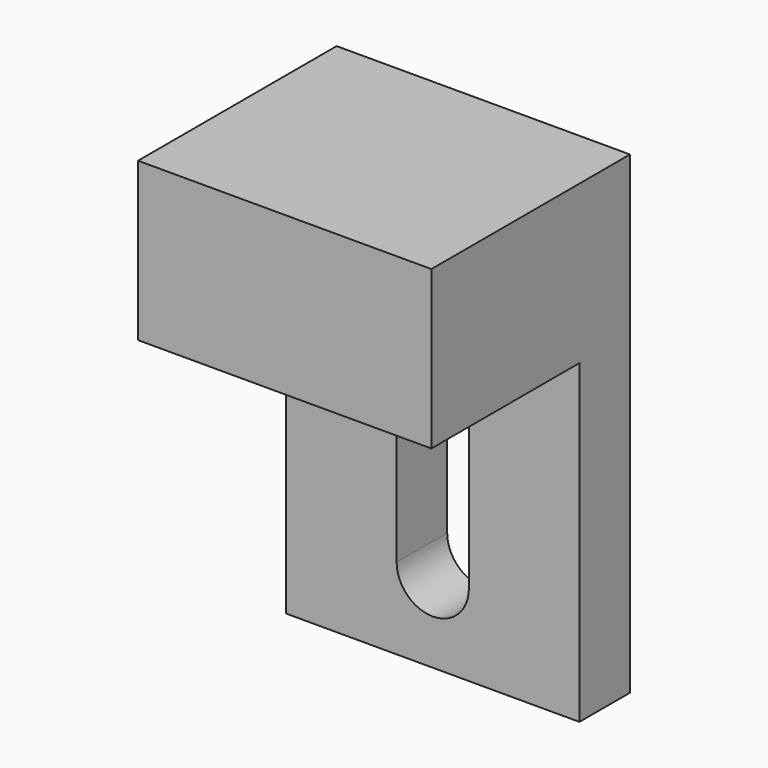
from build123d import *

# Parameters (mm, degrees)
F0_W     = 13
F0_H     = 21
F1_DEPTH = 11
F2_W     = 13
F2_H     = 14
F3_DEPTH = 8.2


with BuildPart() as f1:
    # F0 (on Front) → F1 (new body)
    with BuildSketch(Plane.XZ):
        with Locations((0, 10.5)):
            Rectangle(F0_W, F0_H)
        with BuildLine():
            ThreePointArc((1.6, 3.6), (0, 2), (-1.6, 3.6))
            Line((-1.6, 3.6), (-1.6, 10.6))
            ThreePointArc((-1.6, 10.6), (0, 12.2), (1.6, 10.6))
            Line((1.6, 10.6), (1.6, 3.6))
        make_face(mode=Mode.SUBTRACT)
    extrude(amount=F1_DEPTH)

    # F2 (on face) → F3 (cut)
    with BuildSketch(Plane.XZ.offset(11)):
        with Locations((0, 7)):
            Rectangle(F2_W, F2_H)
        with BuildLine():
            ThreePointArc((1.6, 3.6), (0, 2), (-1.6, 3.6))
            Line((-1.6, 3.6), (-1.6, 10.6))
            ThreePointArc((-1.6, 10.6), (0, 12.2), (1.6, 10.6))
            Line((1.6, 10.6), (1.6, 3.6))
        make_face(mode=Mode.SUBTRACT)
    extrude(amount=-F3_DEPTH, mode=Mode.SUBTRACT)


solid = f1.part
